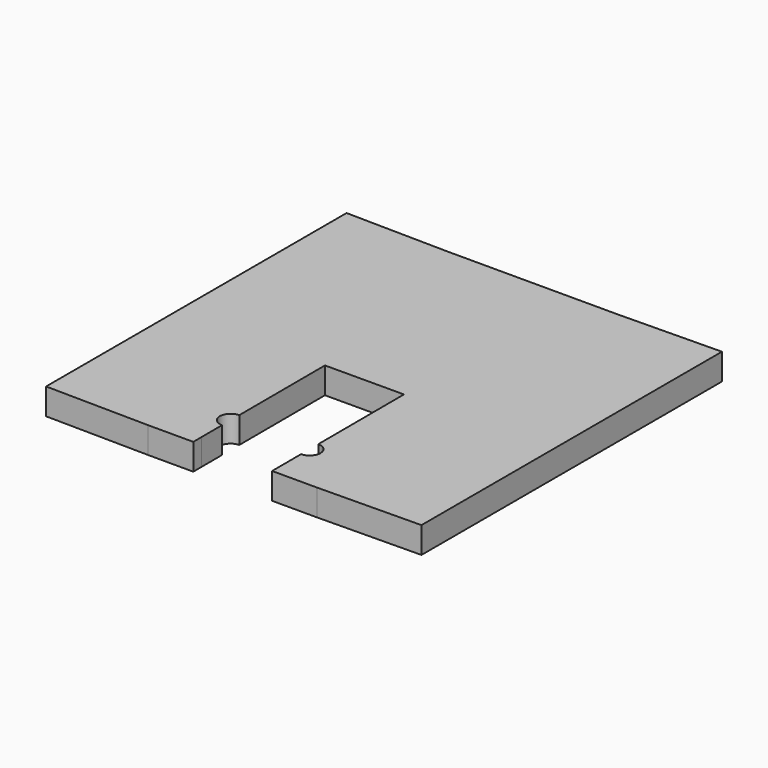
from build123d import *

# Parameters (mm, degrees)
F1_DEPTH = 7
F2_D     = 5.75


with BuildPart() as f1:
    # F0 (on Top) → F1 (new body)
    with BuildSketch(Plane.XY):
        Polygon((10.5, -50), (22.5, -50), (22.5, 50), (-14.5, 50), (-22.5, 50), (-22.5, 39), (-22.5, 16), (-22.5, 10), (-22.5, -47.25), (-10.5080957781, -47.25), (-10.6281967604, -6.0001864958), (10.3717142302, -5.9390441602), align=None)
        Polygon((-10.5, -50), (-10.5080957781, -47.25), (-22.5, -47.25), (-22.5, -50), align=None)
        Polygon((-22.5, 39), (-22.5, 50), (-50, 50.4175424576), (-50, -49.6404245496), (-22.5, -50), (-22.5, -47.25), (-22.5, 10), (-22.5, 16), align=None)
        Polygon((22.5, 50), (22.5, -50), (50, -49.6404245496), (50, 50.4175424576), align=None)
    extrude(amount=F1_DEPTH)

    # F2 (through all)
    with Locations(Plane(origin=(0, 0, 0), x_dir=(1, 0, 0), z_dir=(0, 0, -1))):
        with Locations((-10.5364832571, 37.5000529818), (10.4634277335, 37.4389106462)):
            Hole(F2_D / 2)


solid = f1.part
